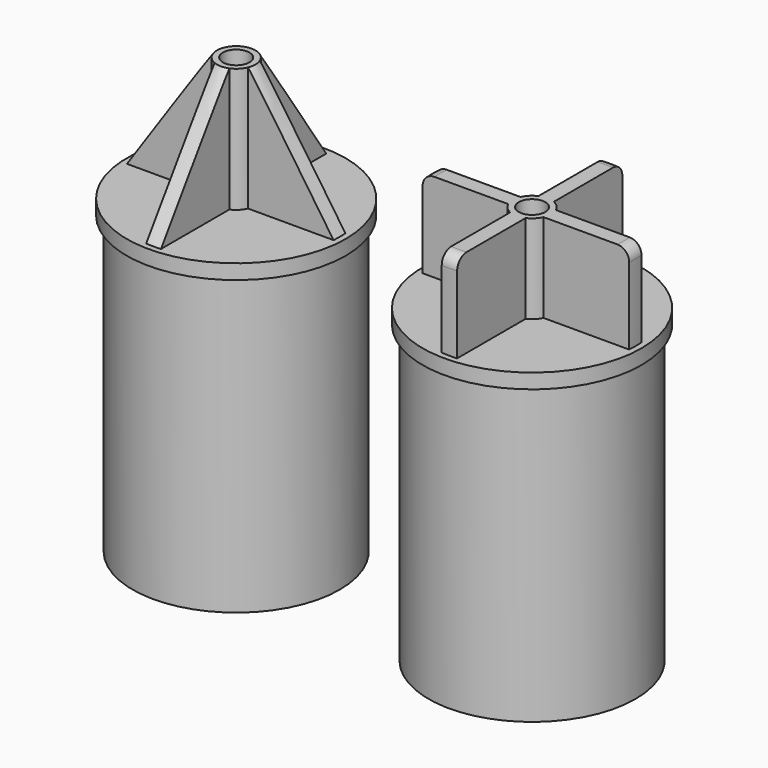
from build123d import *

# Parameters (mm, degrees)
F3_R      = 17.5
F4_DEPTH  = 50
F7_R      = 18.5
F7_R_2    = 17.5
F8_DEPTH  = 2.5
F13_DEPTH = 21
F14_R     = 2.25
F15_DEPTH = 73.5
F19_DEPTH = 15
F20_R     = 2.25
F21_DEPTH = 67.5


with BuildPart() as f4:
    # F3 (on Top) → F4 (new body)
    with BuildSketch(Plane.XY):
        Circle(F3_R)
    extrude(amount=F4_DEPTH)

    # F5 (on Front) → F6 (revolve, cut)
    with BuildSketch(Plane.XZ):
        with BuildLine():
            ThreePointArc((3.75, 3), (4.1893398282, 1.9393398282), (5.25, 1.5))
            Line((5.25, 1.5), (14.5, 1.5))
            ThreePointArc((14.5, 1.5), (15.5606601718, 1.9393398282), (16, 3))
            Line((16, 3), (16, 33.6479484854))
            ThreePointArc((16, 33.6479484854), (15.7629600712, 35.8123446248), (15.0630778704, 37.8741311029))
            Line((15.0630778704, 37.8741311029), (11.2344616806, 46.0846250179))
            ThreePointArc((11.2344616806, 46.0846250179), (9.875, 46.9506976253), (8.5155383194, 46.0846250179))
            Line((8.5155383194, 46.0846250179), (4.6869221296, 37.8741311029))
            ThreePointArc((4.6869221296, 37.8741311029), (3.9870399288, 35.8123446248), (3.75, 33.6479484854))
            Line((3.75, 33.6479484854), (3.75, 3))
        make_face()
    revolve(axis=Axis((0, 0, 25), (0, 0, 1)), mode=Mode.SUBTRACT)

    # F7 (on face) → F8 (join)
    with BuildSketch(Plane.XY.offset(50)):
        Circle(F7_R)
        Circle(F7_R_2, mode=Mode.SUBTRACT)
        Circle(F7_R_2)
    extrude(amount=F8_DEPTH)


with BuildPart() as f9_1:
    # F9: copy of F4
    add(f4.part.moved(Location((50, 0, 0))))

    # F16 (on Front) → F17 (revolve)
    with BuildSketch(Plane.XZ):
        with BuildLine():
            Line((32.5, 65.5), (32.5, 52.5))
            Line((32.5, 52.5), (50, 52.5))
            Line((50, 52.5), (50, 67.5))
            Line((50, 67.5), (34.5, 67.5))
            ThreePointArc((34.5, 67.5), (33.0857864376, 66.9142135624), (32.5, 65.5))
        make_face()
    revolve(axis=Axis((50, 0, 60), (0, 0, 1)))

    # F18 (on face) → F19 (cut, through all)
    with BuildSketch(Plane.XY.offset(67.5)):
        with BuildLine():
            Line((48.7, 2.9786742017), (48.7, 17.4516474867))
            ThreePointArc((48.7, 17.4516474867), (37.6256313292, 12.3743686708), (32.5483525133, 1.3))
            Line((32.5483525133, 1.3), (47.0213257983, 1.3))
            ThreePointArc((47.0213257983, 1.3), (47.7019029611, 2.2980970389), (48.7, 2.9786742017))
        make_face()
        with BuildLine():
            ThreePointArc((67.4516474867, 1.3), (62.3743686708, 12.3743686708), (51.3, 17.4516474867))
            Line((51.3, 17.4516474867), (51.3, 2.9786742017))
            ThreePointArc((51.3, 2.9786742017), (52.2980970389, 2.2980970389), (52.9786742017, 1.3))
            Line((52.9786742017, 1.3), (67.4516474867, 1.3))
        make_face()
        with BuildLine():
            ThreePointArc((52.9786742017, -1.3), (52.2980970389, -2.2980970389), (51.3, -2.9786742017))
            Line((51.3, -2.9786742017), (51.3, -17.4516474867))
            ThreePointArc((51.3, -17.4516474867), (62.3743686708, -12.3743686708), (67.4516474867, -1.3))
            Line((67.4516474867, -1.3), (52.9786742017, -1.3))
        make_face()
        with BuildLine():
            Line((48.7, -17.4516474867), (48.7, -2.9786742017))
            ThreePointArc((48.7, -2.9786742017), (47.7019029611, -2.2980970389), (47.0213257983, -1.3))
            Line((47.0213257983, -1.3), (32.5483525133, -1.3))
            ThreePointArc((32.5483525133, -1.3), (37.6256313292, -12.3743686708), (48.7, -17.4516474867))
        make_face()
    extrude(amount=-F19_DEPTH, mode=Mode.SUBTRACT)

    # F20 (on face) → F21 (cut, through all)
    with BuildSketch(Plane.XY.offset(67.5)):
        with Locations((50, 0)):
            Circle(F20_R)
    extrude(amount=-F21_DEPTH, mode=Mode.SUBTRACT)


with BuildPart() as f4_1:
    add(f4.part)

    # F10 (on Front) → F11 (revolve)
    with BuildSketch(Plane.XZ):
        Polygon((-3.25, 73.5), (-17.5, 52.5), (0, 52.5), (0, 73.5), align=None)
    revolve(axis=Axis((0, 0, 63), (0, 0, 1)))

    # F12 (on face) → F13 (cut, through all)
    with BuildSketch(Plane.XY.offset(73.5)):
        with BuildLine():
            ThreePointArc((-1.25, 17.4553000547), (-12.3743686708, 12.3743686708), (-17.4553000547, 1.25))
            Line((-17.4553000547, 1.25), (-3, 1.25))
            ThreePointArc((-3, 1.25), (-2.2980970389, 2.2980970389), (-1.25, 3))
            Line((-1.25, 3), (-1.25, 17.4553000547))
        make_face()
        with BuildLine():
            Line((1.25, 17.4553000547), (1.25, 3))
            ThreePointArc((1.25, 3), (2.2980970389, 2.2980970389), (3, 1.25))
            Line((3, 1.25), (17.4553000547, 1.25))
            ThreePointArc((17.4553000547, 1.25), (12.3743686708, 12.3743686708), (1.25, 17.4553000547))
        make_face()
        with BuildLine():
            ThreePointArc((3, -1.25), (2.2980970389, -2.2980970389), (1.25, -3))
            Line((1.25, -3), (1.25, -17.4553000547))
            ThreePointArc((1.25, -17.4553000547), (12.3743686708, -12.3743686708), (17.4553000547, -1.25))
            Line((17.4553000547, -1.25), (3, -1.25))
        make_face()
        with BuildLine():
            ThreePointArc((-1.25, -3), (-2.2980970389, -2.2980970389), (-3, -1.25))
            Line((-3, -1.25), (-17.4553000547, -1.25))
            ThreePointArc((-17.4553000547, -1.25), (-12.3743686708, -12.3743686708), (-1.25, -17.4553000547))
            Line((-1.25, -17.4553000547), (-1.25, -3))
        make_face()
    extrude(amount=-F13_DEPTH, mode=Mode.SUBTRACT)

    # F14 (on face) → F15 (cut, through all)
    with BuildSketch(Plane.XY.offset(73.5)):
        Circle(F14_R)
    extrude(amount=-F15_DEPTH, mode=Mode.SUBTRACT)


solid = Compound([f9_1.part, f4_1.part])
